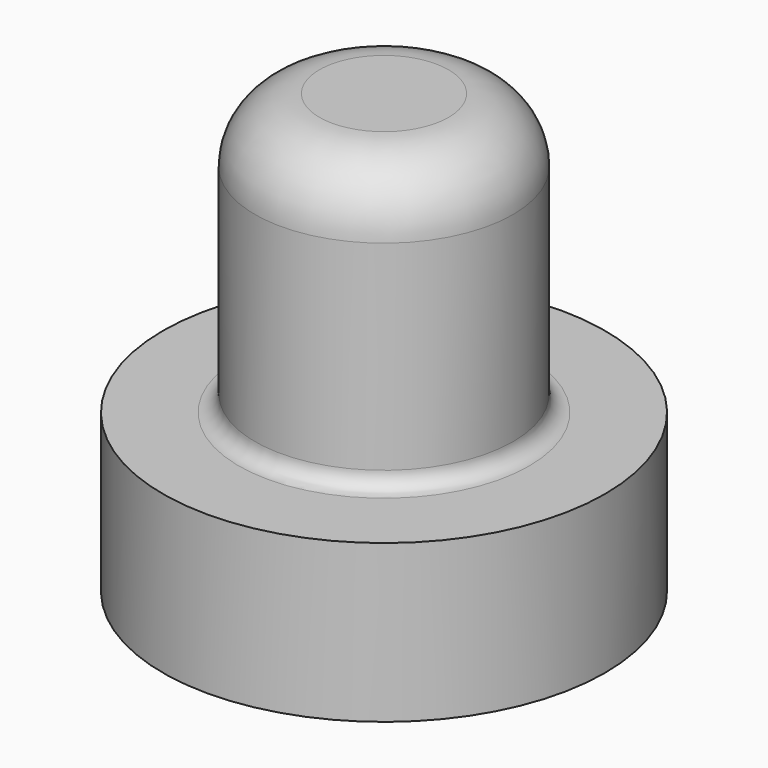
from build123d import *

# Parameters (mm, degrees)
F2_R = 5.08
F3_R = 1.27
F4_R = 1.27


with BuildPart() as f1:
    # F0 (on Front) → F1 (revolve)
    with BuildSketch(Plane.XZ):
        Polygon((14.224, 0), (17.399, 0), (17.399, 12.394325), (10.16, 12.394325), (10.16, 34.484531), (0, 34.484531), (0, 9.219325), (14.224, 9.219325), align=None)
    revolve(axis=Axis((0, 0, 21.851928), (0, 0, 1)))

    # F2
    f2_edges = [f1.edges().sort_by_distance(p)[0] for p in [
        (-10.16, 0, 34.484531),
    ]]
    fillet(f2_edges, radius=F2_R)

    # F3
    f3_edges = [f1.edges().sort_by_distance(p)[0] for p in [
        (-10.16, 0, 12.394325),
    ]]
    fillet(f3_edges, radius=F3_R)

    # F4
    f4_edges = [f1.edges().sort_by_distance(p)[0] for p in [
        (-14.224, 0, 9.219325),
        (-14.224, 0, 0),
    ]]
    fillet(f4_edges, radius=F4_R)


solid = f1.part
